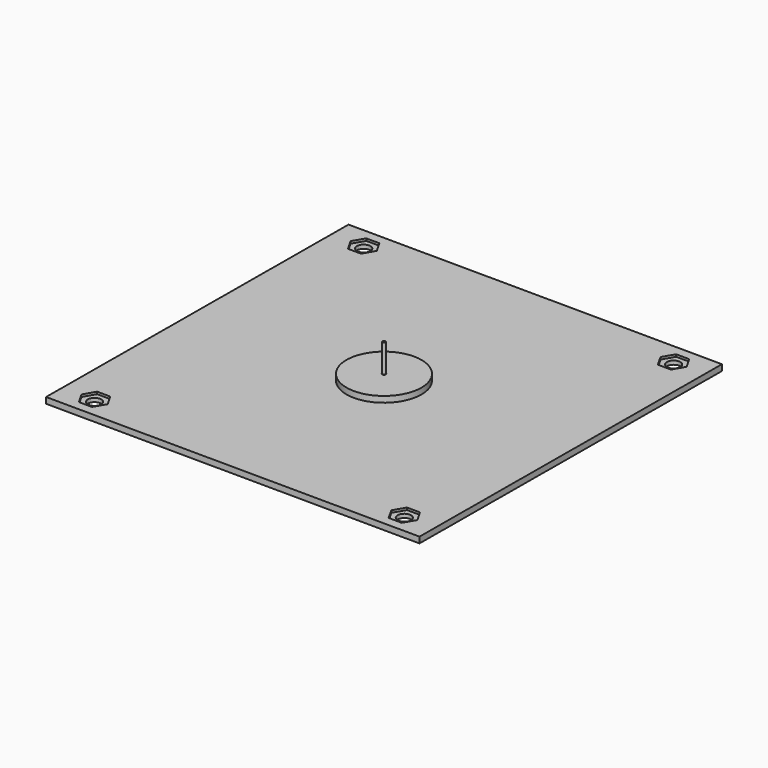
from build123d import *

# Parameters (mm, degrees)
F0_R     = 0.95
F1_DEPTH = 3.2
F0_R_2   = 3.6
F2_DEPTH = 2
F3_R     = 20
F3_R_2   = 0.95
F4_DEPTH = 3.2
F5_R     = 0.8
F6_DEPTH = 15


with BuildPart() as f1:
    # F0 (on Top) → F1 (new body)
    with BuildSketch(Plane.XY):
        Polygon((100.603239, 99.3931), (-99.3931, 100.603239), (-100.603239, -99.3931), (99.3931, -100.603239), align=None)
        Polygon((-87.073233, -94.474876), (-90.536488, -88.391632), (-86.999872, -82.350742), (-80, -82.393097), (-76.536744, -88.476341), (-80.073361, -94.517231), align=None, mode=Mode.SUBTRACT)
        Circle(F0_R, mode=Mode.SUBTRACT)
        Polygon((85.929844, -83.397106), (89.3931, -89.480351), (85.856484, -95.52124), (78.856612, -95.478885), (75.393356, -89.395641), (78.929972, -83.354751), align=None, mode=Mode.SUBTRACT)
        Polygon((-78.856612, 95.478885), (-75.393356, 89.395641), (-78.929972, 83.354751), (-85.929844, 83.397106), (-89.3931, 89.480351), (-85.856484, 95.52124), align=None, mode=Mode.SUBTRACT)
        Polygon((87.139983, 94.474472), (90.603239, 88.391228), (87.066623, 82.350338), (80.066751, 82.392693), (76.603495, 88.475937), (80.140112, 94.516827), align=None, mode=Mode.SUBTRACT)
    extrude(amount=F1_DEPTH)

    # F0 (on Top) → F2 (join)
    with BuildSketch(Plane.XY):
        Polygon((-86.999872, -82.350742), (-90.536488, -88.391632), (-87.073233, -94.474876), (-80.073361, -94.517231), (-76.536744, -88.476341), (-80, -82.393097), align=None)
        with Locations((-83.536616, -88.433986)):
            Circle(F0_R_2, mode=Mode.SUBTRACT)
        Polygon((-78.929972, 83.354751), (-75.393356, 89.395641), (-78.856612, 95.478885), (-85.856484, 95.52124), (-89.3931, 89.480351), (-85.929844, 83.397106), align=None)
        with Locations((-82.393228, 89.437996)):
            Circle(F0_R_2, mode=Mode.SUBTRACT)
        Polygon((85.856484, -95.52124), (89.3931, -89.480351), (85.929844, -83.397106), (78.929972, -83.354751), (75.393356, -89.395641), (78.856612, -95.478885), align=None)
        with Locations((82.393228, -89.437996)):
            Circle(F0_R_2, mode=Mode.SUBTRACT)
        Polygon((87.066623, 82.350338), (90.603239, 88.391228), (87.139983, 94.474472), (80.140112, 94.516827), (76.603495, 88.475937), (80.066751, 82.392693), align=None)
        with Locations((83.603367, 88.433582)):
            Circle(F0_R_2, mode=Mode.SUBTRACT)
    extrude(amount=F2_DEPTH)


with BuildPart() as f4:
    # F3 (on face) → F4 (new body)
    with BuildSketch(Plane.XY.offset(3.2)):
        Circle(F3_R)
        Circle(F3_R_2, mode=Mode.SUBTRACT)
    extrude(amount=F4_DEPTH)


with BuildPart() as f6:
    # F5 (on face) → F6 (new body)
    with BuildSketch(Plane.XY.offset(6.4)):
        Circle(F5_R)
    extrude(amount=F6_DEPTH)


solid = Compound([f1.part, f4.part, f6.part])
